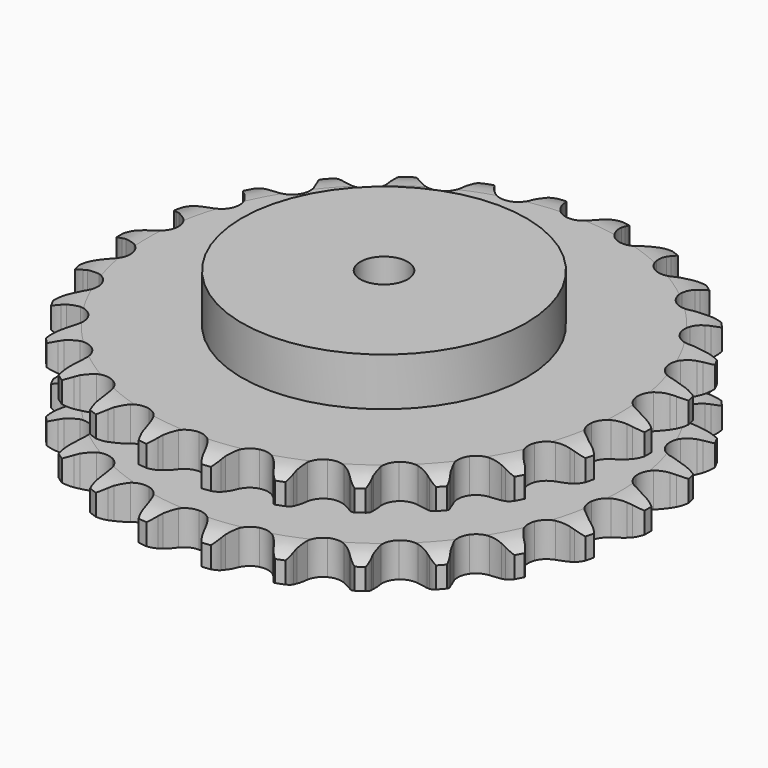
from build123d import *

# Parameters (mm, degrees)
PAD_DEPTH         = 54.6
SKETCH001_R       = 75
PAD001_DEPTH      = 80
SKETCH002_R       = 12.5
POCKET_DEPTH      = 0.001
POCKET_DEPTH_BACK = 80.001


with BuildPart() as part:
    # Sprocket → Pad (new body)
    with BuildSketch(Plane.XY):
        with BuildLine():
            ThreePointArc((-17.121074, 141.004727), (-14.052708, 137.966823), (-11.93287, 134.205173))
            Line((-11.93287, 134.205173), (-11.005884, 131.847241))
            ThreePointArc((-11.005884, 131.847241), (-9.531794, 128.746039), (-7.644295, 125.877634))
            ThreePointArc((-7.644295, 125.877634), (-4.265174, 123.090197), (0, 122.091923))
            ThreePointArc((0, 122.091923), (4.265174, 123.090197), (7.644295, 125.877634))
            ThreePointArc((7.644295, 125.877634), (9.531794, 128.746039), (11.005884, 131.847241))
            Line((11.005884, 131.847241), (11.93287, 134.205173))
            ThreePointArc((11.93287, 134.205173), (14.052708, 137.966823), (17.121074, 141.004727))
            ThreePointArc((17.121074, 141.004727), (19.37326, 137.320791), (20.531277, 133.161138))
            Line((20.531277, 133.161138), (20.867037, 130.64988))
            ThreePointArc((20.867037, 130.64988), (21.556126, 127.28602), (22.702324, 124.049258))
            ThreePointArc((22.702324, 124.049258), (25.316176, 120.534142), (29.21851, 118.544154))
            ThreePointArc((29.21851, 118.544154), (33.598648, 118.492696), (37.546655, 120.390459))
            Line((37.546655, 120.390459), (42.239183, 125.382119))
            ThreePointArc((42.239183, 125.382119), (42.944986, 126.434579), (43.703523, 127.449692))
            ThreePointArc((43.703523, 127.449692), (46.661984, 130.594725), (50.368206, 132.810044))
            ThreePointArc((50.368206, 132.810044), (51.673325, 128.694174), (51.802222, 124.378261))
            Line((51.802222, 124.378261), (51.527242, 121.859623))
            ThreePointArc((51.527242, 121.859623), (51.391283, 118.428601), (51.729566, 115.011591))
            ThreePointArc((51.729566, 115.011591), (53.426242, 110.973082), (56.738946, 108.107029))
            ThreePointArc((56.738946, 108.107029), (60.979491, 107.008831), (65.26694, 107.906629))
            Line((65.26694, 107.906629), (71.017694, 111.630245))
            ThreePointArc((71.017694, 111.630245), (71.954859, 112.483212), (72.934286, 113.287298))
            ThreePointArc((72.934286, 113.287298), (76.559435, 115.632936), (80.688122, 116.896925))
            ThreePointArc((80.688122, 116.896925), (80.970324, 112.588319), (80.06261, 108.366971))
            Line((80.06261, 108.366971), (79.19287, 105.987328))
            ThreePointArc((79.19287, 105.987328), (78.239765, 102.688542), (77.750474, 99.289867))
            ThreePointArc((77.750474, 99.289867), (78.43137, 94.962669), (80.961921, 91.387117))
            ThreePointArc((80.961921, 91.387117), (84.816427, 89.306001), (89.194148, 89.151657))
            Line((89.194148, 89.151657), (95.668915, 91.390826))
            ThreePointArc((95.668915, 91.390826), (96.782976, 91.99473), (97.926373, 92.541058))
            ThreePointArc((97.926373, 92.541058), (102.00753, 93.950981), (106.318737, 94.190182))
            ThreePointArc((106.318737, 94.190182), (105.561622, 89.93924), (103.670049, 86.057787))
            Line((103.670049, 86.057787), (102.256097, 83.955434))
            ThreePointArc((102.256097, 83.955434), (100.541236, 80.980598), (99.252807, 77.797778))
            ThreePointArc((99.252807, 77.797778), (98.878351, 73.433371), (100.479683, 69.356117))
            ThreePointArc((100.479683, 69.356117), (103.724141, 66.413032), (107.937716, 65.215515))
            Line((107.937716, 65.215515), (114.760207, 65.840105))
            ThreePointArc((114.760207, 65.840105), (115.986418, 66.159848), (117.227335, 66.416668))
            ThreePointArc((117.227335, 66.416668), (121.527318, 66.808937), (125.770493, 66.009447))
            ThreePointArc((125.770493, 66.009447), (124.018062, 62.06322), (121.252563, 58.747238))
            Line((121.252563, 58.747238), (119.376572, 57.044356))
            ThreePointArc((119.376572, 57.044356), (116.999617, 54.566357), (114.986928, 51.784364))
            ThreePointArc((114.986928, 51.784364), (113.578882, 47.636393), (114.157931, 43.294393))
            ThreePointArc((114.157931, 43.294393), (116.603785, 39.660378), (120.408337, 37.489284))
            Line((120.408337, 37.489284), (127.182052, 36.462996))
            ThreePointArc((127.182052, 36.462996), (128.449152, 36.479996), (129.715471, 36.432383))
            ThreePointArc((129.715471, 36.432383), (133.98438, 35.7842), (137.912926, 33.992483))
            ThreePointArc((137.912926, 33.992483), (135.267023, 30.580311), (131.788318, 28.022512))
            Line((131.788318, 28.022512), (129.559313, 26.818067))
            ThreePointArc((129.559313, 26.818067), (126.658404, 24.980916), (124.038426, 22.761432))
            ThreePointArc((124.038426, 22.761432), (121.678621, 19.07096), (121.201736, 14.716555))
            ThreePointArc((121.201736, 14.716555), (122.70684, 10.602807), (125.881262, 7.584313))
            Line((125.881262, 7.584313), (132.212539, 4.96679))
            ThreePointArc((132.212539, 4.96679), (133.446887, 4.68006), (134.665015, 4.33078))
            ThreePointArc((134.665015, 4.33078), (138.654757, 2.679815), (142.040361, 0))
            ThreePointArc((142.040361, 0), (138.654757, -2.679815), (134.665015, -4.33078))
            Line((134.665015, -4.33078), (132.212539, -4.96679))
            ThreePointArc((132.212539, -4.96679), (128.956266, -6.056324), (125.881262, -7.584313))
            ThreePointArc((125.881262, -7.584313), (122.70684, -10.602807), (121.201736, -14.716555))
            ThreePointArc((121.201736, -14.716555), (121.678621, -19.07096), (124.038426, -22.761432))
            Line((124.038426, -22.761432), (129.559313, -26.818067))
            ThreePointArc((129.559313, -26.818067), (130.689175, -27.391865), (131.788318, -28.022512))
            ThreePointArc((131.788318, -28.022512), (135.267023, -30.580311), (137.912926, -33.992483))
            ThreePointArc((137.912926, -33.992483), (133.98438, -35.7842), (129.715471, -36.432383))
            Line((129.715471, -36.432383), (127.182052, -36.462996))
            ThreePointArc((127.182052, -36.462996), (123.759658, -36.741592), (120.408337, -37.489284))
            ThreePointArc((120.408337, -37.489284), (116.603785, -39.660378), (114.157931, -43.294393))
            ThreePointArc((114.157931, -43.294393), (113.578882, -47.636393), (114.986928, -51.784364))
            Line((114.986928, -51.784364), (119.376572, -57.044356))
            ThreePointArc((119.376572, -57.044356), (120.336283, -57.871874), (121.252563, -58.747238))
            ThreePointArc((121.252563, -58.747238), (124.018062, -62.06322), (125.770493, -66.009447))
            ThreePointArc((125.770493, -66.009447), (121.527318, -66.808937), (117.227335, -66.416668))
            Line((117.227335, -66.416668), (114.760207, -65.840105))
            ThreePointArc((114.760207, -65.840105), (111.370589, -65.291573), (107.937716, -65.215515))
            ThreePointArc((107.937716, -65.215515), (103.724141, -66.413032), (100.479683, -69.356117))
            ThreePointArc((100.479683, -69.356117), (98.878351, -73.433371), (99.252807, -77.797778))
            Line((99.252807, -77.797778), (102.256097, -83.955434))
            ThreePointArc((102.256097, -83.955434), (102.989883, -84.98858), (103.670049, -86.057787))
            ThreePointArc((103.670049, -86.057787), (105.561622, -89.93924), (106.318737, -94.190182))
            ThreePointArc((106.318737, -94.190182), (102.00753, -93.950981), (97.926373, -92.541058))
            Line((97.926373, -92.541058), (95.668915, -91.390826))
            ThreePointArc((95.668915, -91.390826), (92.509066, -90.047045), (89.194148, -89.151657))
            ThreePointArc((89.194148, -89.151657), (84.816427, -89.306001), (80.961921, -91.387117))
            ThreePointArc((80.961921, -91.387117), (78.43137, -94.962669), (77.750474, -99.289867))
            Line((77.750474, -99.289867), (79.19287, -105.987328))
            ThreePointArc((79.19287, -105.987328), (79.658086, -107.166058), (80.06261, -108.366971))
            ThreePointArc((80.06261, -108.366971), (80.970324, -112.588319), (80.688122, -116.896925))
            ThreePointArc((80.688122, -116.896925), (76.559435, -115.632936), (72.934286, -113.287298))
            Line((72.934286, -113.287298), (71.017694, -111.630245))
            ThreePointArc((71.017694, -111.630245), (68.271252, -109.56931), (65.26694, -107.906629))
            ThreePointArc((65.26694, -107.906629), (60.979491, -107.008831), (56.738946, -108.107029))
            ThreePointArc((56.738946, -108.107029), (53.426242, -110.973082), (51.729566, -115.011591))
            Line((51.729566, -115.011591), (51.527242, -121.859623))
            ThreePointArc((51.527242, -121.859623), (51.696851, -123.115435), (51.802222, -124.378261))
            ThreePointArc((51.802222, -124.378261), (51.673325, -128.694174), (50.368206, -132.810044))
            ThreePointArc((50.368206, -132.810044), (46.661984, -130.594725), (43.703523, -127.449692))
            Line((43.703523, -127.449692), (42.239183, -125.382119))
            ThreePointArc((42.239183, -125.382119), (40.065761, -122.723805), (37.546655, -120.390459))
            ThreePointArc((37.546655, -120.390459), (33.598648, -118.492696), (29.21851, -118.544154))
            ThreePointArc((29.21851, -118.544154), (25.316176, -120.534142), (22.702324, -124.049258))
            Line((22.702324, -124.049258), (20.867037, -130.64988))
            ThreePointArc((20.867037, -130.64988), (20.731182, -131.909791), (20.531277, -133.161138))
            ThreePointArc((20.531277, -133.161138), (19.37326, -137.320791), (17.121074, -141.004727))
            ThreePointArc((17.121074, -141.004727), (14.052708, -137.966823), (11.93287, -134.205173))
            Line((11.93287, -134.205173), (11.005884, -131.847241))
            ThreePointArc((11.005884, -131.847241), (9.531794, -128.746039), (7.644295, -125.877634))
            ThreePointArc((7.644295, -125.877634), (4.265174, -123.090197), (0, -122.091923))
            ThreePointArc((0, -122.091923), (-4.265174, -123.090197), (-7.644295, -125.877634))
            Line((-7.644295, -125.877634), (-11.005884, -131.847241))
            ThreePointArc((-11.005884, -131.847241), (-11.439308, -133.038028), (-11.93287, -134.205173))
            ThreePointArc((-11.93287, -134.205173), (-14.052708, -137.966823), (-17.121074, -141.004727))
            ThreePointArc((-17.121074, -141.004727), (-19.37326, -137.320791), (-20.531277, -133.161138))
            Line((-20.531277, -133.161138), (-20.867037, -130.64988))
            ThreePointArc((-20.867037, -130.64988), (-21.556126, -127.28602), (-22.702324, -124.049258))
            ThreePointArc((-22.702324, -124.049258), (-25.316176, -120.534142), (-29.21851, -118.544154))
            ThreePointArc((-29.21851, -118.544154), (-33.598648, -118.492696), (-37.546655, -120.390459))
            Line((-37.546655, -120.390459), (-42.239183, -125.382119))
            ThreePointArc((-42.239183, -125.382119), (-42.944986, -126.434579), (-43.703523, -127.449692))
            ThreePointArc((-43.703523, -127.449692), (-46.661984, -130.594725), (-50.368206, -132.810044))
            ThreePointArc((-50.368206, -132.810044), (-51.673325, -128.694174), (-51.802222, -124.378261))
            Line((-51.802222, -124.378261), (-51.527242, -121.859623))
            ThreePointArc((-51.527242, -121.859623), (-51.391283, -118.428601), (-51.729566, -115.011591))
            ThreePointArc((-51.729566, -115.011591), (-53.426242, -110.973082), (-56.738946, -108.107029))
            ThreePointArc((-56.738946, -108.107029), (-60.979491, -107.008831), (-65.26694, -107.906629))
            Line((-65.26694, -107.906629), (-71.017694, -111.630245))
            ThreePointArc((-71.017694, -111.630245), (-71.954859, -112.483212), (-72.934286, -113.287298))
            ThreePointArc((-72.934286, -113.287298), (-76.559435, -115.632936), (-80.688122, -116.896925))
            ThreePointArc((-80.688122, -116.896925), (-80.970324, -112.588319), (-80.06261, -108.366971))
            Line((-80.06261, -108.366971), (-79.19287, -105.987328))
            ThreePointArc((-79.19287, -105.987328), (-78.239765, -102.688542), (-77.750474, -99.289867))
            ThreePointArc((-77.750474, -99.289867), (-78.43137, -94.962669), (-80.961921, -91.387117))
            ThreePointArc((-80.961921, -91.387117), (-84.816427, -89.306001), (-89.194148, -89.151657))
            Line((-89.194148, -89.151657), (-95.668915, -91.390826))
            ThreePointArc((-95.668915, -91.390826), (-96.782976, -91.99473), (-97.926373, -92.541058))
            ThreePointArc((-97.926373, -92.541058), (-102.00753, -93.950981), (-106.318737, -94.190182))
            ThreePointArc((-106.318737, -94.190182), (-105.561622, -89.93924), (-103.670049, -86.057787))
            Line((-103.670049, -86.057787), (-102.256097, -83.955434))
            ThreePointArc((-102.256097, -83.955434), (-100.541236, -80.980598), (-99.252807, -77.797778))
            ThreePointArc((-99.252807, -77.797778), (-98.878351, -73.433371), (-100.479683, -69.356117))
            ThreePointArc((-100.479683, -69.356117), (-103.724141, -66.413032), (-107.937716, -65.215515))
            Line((-107.937716, -65.215515), (-114.760207, -65.840105))
            ThreePointArc((-114.760207, -65.840105), (-115.986418, -66.159848), (-117.227335, -66.416668))
            ThreePointArc((-117.227335, -66.416668), (-121.527318, -66.808937), (-125.770493, -66.009447))
            ThreePointArc((-125.770493, -66.009447), (-124.018062, -62.06322), (-121.252563, -58.747238))
            Line((-121.252563, -58.747238), (-119.376572, -57.044356))
            ThreePointArc((-119.376572, -57.044356), (-116.999617, -54.566357), (-114.986928, -51.784364))
            ThreePointArc((-114.986928, -51.784364), (-113.578882, -47.636393), (-114.157931, -43.294393))
            ThreePointArc((-114.157931, -43.294393), (-116.603785, -39.660378), (-120.408337, -37.489284))
            Line((-120.408337, -37.489284), (-127.182052, -36.462996))
            ThreePointArc((-127.182052, -36.462996), (-128.449152, -36.479996), (-129.715471, -36.432383))
            ThreePointArc((-129.715471, -36.432383), (-133.98438, -35.7842), (-137.912926, -33.992483))
            ThreePointArc((-137.912926, -33.992483), (-135.267023, -30.580311), (-131.788318, -28.022512))
            Line((-131.788318, -28.022512), (-129.559313, -26.818067))
            ThreePointArc((-129.559313, -26.818067), (-126.658404, -24.980916), (-124.038426, -22.761432))
            ThreePointArc((-124.038426, -22.761432), (-121.678621, -19.07096), (-121.201736, -14.716555))
            ThreePointArc((-121.201736, -14.716555), (-122.70684, -10.602807), (-125.881262, -7.584313))
            Line((-125.881262, -7.584313), (-132.212539, -4.96679))
            ThreePointArc((-132.212539, -4.96679), (-133.446887, -4.68006), (-134.665015, -4.33078))
            ThreePointArc((-134.665015, -4.33078), (-138.654757, -2.679815), (-142.040361, 0))
            ThreePointArc((-142.040361, 0), (-138.654757, 2.679815), (-134.665015, 4.33078))
            Line((-134.665015, 4.33078), (-132.212539, 4.96679))
            ThreePointArc((-132.212539, 4.96679), (-128.956266, 6.056324), (-125.881262, 7.584313))
            ThreePointArc((-125.881262, 7.584313), (-122.70684, 10.602807), (-121.201736, 14.716555))
            ThreePointArc((-121.201736, 14.716555), (-121.678621, 19.07096), (-124.038426, 22.761432))
            Line((-124.038426, 22.761432), (-129.559313, 26.818067))
            ThreePointArc((-129.559313, 26.818067), (-130.689175, 27.391865), (-131.788318, 28.022512))
            ThreePointArc((-131.788318, 28.022512), (-135.267023, 30.580311), (-137.912926, 33.992483))
            ThreePointArc((-137.912926, 33.992483), (-133.98438, 35.7842), (-129.715471, 36.432383))
            Line((-129.715471, 36.432383), (-127.182052, 36.462996))
            ThreePointArc((-127.182052, 36.462996), (-123.759658, 36.741592), (-120.408337, 37.489284))
            ThreePointArc((-120.408337, 37.489284), (-116.603785, 39.660378), (-114.157931, 43.294393))
            ThreePointArc((-114.157931, 43.294393), (-113.578882, 47.636393), (-114.986928, 51.784364))
            Line((-114.986928, 51.784364), (-119.376572, 57.044356))
            ThreePointArc((-119.376572, 57.044356), (-120.336283, 57.871874), (-121.252563, 58.747238))
            ThreePointArc((-121.252563, 58.747238), (-124.018062, 62.06322), (-125.770493, 66.009447))
            ThreePointArc((-125.770493, 66.009447), (-121.527318, 66.808937), (-117.227335, 66.416668))
            Line((-117.227335, 66.416668), (-114.760207, 65.840105))
            ThreePointArc((-114.760207, 65.840105), (-111.370589, 65.291573), (-107.937716, 65.215515))
            ThreePointArc((-107.937716, 65.215515), (-103.724141, 66.413032), (-100.479683, 69.356117))
            ThreePointArc((-100.479683, 69.356117), (-98.878351, 73.433371), (-99.252807, 77.797778))
            Line((-99.252807, 77.797778), (-102.256097, 83.955434))
            ThreePointArc((-102.256097, 83.955434), (-102.989883, 84.98858), (-103.670049, 86.057787))
            ThreePointArc((-103.670049, 86.057787), (-105.561622, 89.93924), (-106.318737, 94.190182))
            ThreePointArc((-106.318737, 94.190182), (-102.00753, 93.950981), (-97.926373, 92.541058))
            Line((-97.926373, 92.541058), (-95.668915, 91.390826))
            ThreePointArc((-95.668915, 91.390826), (-92.509066, 90.047045), (-89.194148, 89.151657))
            ThreePointArc((-89.194148, 89.151657), (-84.816427, 89.306001), (-80.961921, 91.387117))
            ThreePointArc((-80.961921, 91.387117), (-78.43137, 94.962669), (-77.750474, 99.289867))
            Line((-77.750474, 99.289867), (-79.19287, 105.987328))
            ThreePointArc((-79.19287, 105.987328), (-79.658086, 107.166058), (-80.06261, 108.366971))
            ThreePointArc((-80.06261, 108.366971), (-80.970324, 112.588319), (-80.688122, 116.896925))
            ThreePointArc((-80.688122, 116.896925), (-76.559435, 115.632936), (-72.934286, 113.287298))
            Line((-72.934286, 113.287298), (-71.017694, 111.630245))
            ThreePointArc((-71.017694, 111.630245), (-68.271252, 109.56931), (-65.26694, 107.906629))
            ThreePointArc((-65.26694, 107.906629), (-60.979491, 107.008831), (-56.738946, 108.107029))
            ThreePointArc((-56.738946, 108.107029), (-53.426242, 110.973082), (-51.729566, 115.011591))
            Line((-51.729566, 115.011591), (-51.527242, 121.859623))
            ThreePointArc((-51.527242, 121.859623), (-51.696851, 123.115435), (-51.802222, 124.378261))
            ThreePointArc((-51.802222, 124.378261), (-51.673325, 128.694174), (-50.368206, 132.810044))
            ThreePointArc((-50.368206, 132.810044), (-46.661984, 130.594725), (-43.703523, 127.449692))
            Line((-43.703523, 127.449692), (-42.239183, 125.382119))
            ThreePointArc((-42.239183, 125.382119), (-40.065761, 122.723805), (-37.546655, 120.390459))
            ThreePointArc((-37.546655, 120.390459), (-33.598648, 118.492696), (-29.21851, 118.544154))
            ThreePointArc((-29.21851, 118.544154), (-25.316176, 120.534142), (-22.702324, 124.049258))
            Line((-22.702324, 124.049258), (-20.867037, 130.64988))
            ThreePointArc((-20.867037, 130.64988), (-20.731182, 131.909791), (-20.531277, 133.161138))
            ThreePointArc((-20.531277, 133.161138), (-19.37326, 137.320791), (-17.121074, 141.004727))
        make_face()
    extrude(amount=PAD_DEPTH)

    # Sketch → Groove (revolve, cut)
    with BuildSketch(Plane.XZ):
        with BuildLine():
            ThreePointArc((124.748368, 0), (132.231683, 0.887302), (139.3, 3.5))
            Line((139.3, 3.5), (139.3, 14.7))
            ThreePointArc((139.3, 14.7), (132.231683, 17.312698), (124.748368, 18.2))
            Line((75, 18.2), (124.748368, 18.2))
            Line((75, 36.4), (75, 18.2))
            Line((124.748368, 36.4), (75, 36.4))
            ThreePointArc((124.748368, 36.4), (132.231683, 37.287302), (139.3, 39.9))
            Line((139.3, 39.9), (139.3, 51.1))
            ThreePointArc((139.3, 51.1), (132.231683, 53.712698), (124.748368, 54.6))
            Line((124.748368, 54.6), (149.3, 54.6))
            Line((149.3, 54.6), (149.3, 0))
            Line((124.748368, 0), (149.3, 0))
        make_face()
    revolve(axis=Axis((0, 0, 0), (0, 0, 1)), mode=Mode.SUBTRACT)

    # Sketch001 → Pad001 (join)
    with BuildSketch(Plane.XY):
        Circle(SKETCH001_R)
    extrude(amount=PAD001_DEPTH)

    # Sketch002 → Pocket (cut, two sides)
    with BuildSketch(Plane.XY) as pocket_sk:
        Circle(SKETCH002_R)
    extrude(amount=-POCKET_DEPTH, mode=Mode.SUBTRACT)
    extrude(pocket_sk.sketch, amount=POCKET_DEPTH_BACK, mode=Mode.SUBTRACT)


solid = part.part
